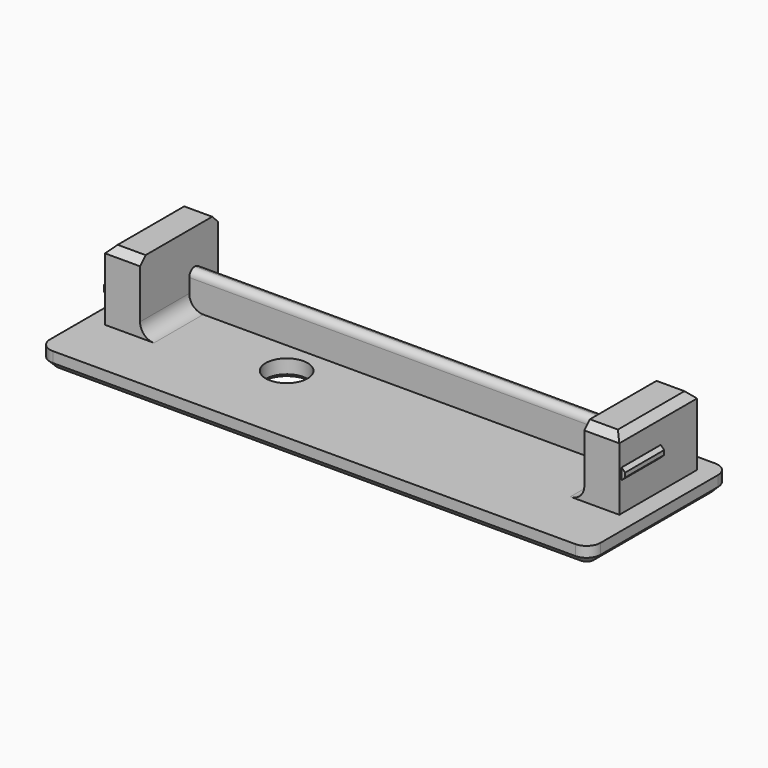
from build123d import *

# Parameters (mm, degrees)
SKETCH_W        = 73.75
SKETCH_H        = 20
PAD_DEPTH       = 2.5
SKETCH001_W     = 5
SKETCH001_H     = 13.9
PAD001_DEPTH    = 10
SKETCH002_W     = 25
SKETCH002_H     = 2.5
PAD002_DEPTH    = 2.5
SKETCH003_W     = 25
SKETCH003_H     = 2.5
PAD003_DEPTH    = 2.5
SKETCH004_W     = 73.75
SKETCH004_H     = 2.5
PAD004_DEPTH    = 2.5
SKETCH005_W     = 73.75
SKETCH005_H     = 2.5
PAD005_DEPTH    = 2.5
FILLET_R        = 2
SKETCH006_R     = 3
POCKET_DEPTH    = 5
CHAMFER_SIZE    = 0.5
SKETCH007_W     = 7
SKETCH007_H     = 1.6
PAD006_DEPTH    = 0.5
CHAMFER001_SIZE = 0.39
SKETCH008_W     = 7
SKETCH008_H     = 1.6
PAD007_DEPTH    = 0.5
CHAMFER002_SIZE = 0.49
CHAMFER003_SIZE = 1
CHAMFER004_SIZE = 1
CHAMFER005_SIZE = 1
SKETCH009_W     = 63.55
SKETCH009_H     = 2
PAD008_DEPTH    = 5
FILLET001_R     = 2
FILLET002_R     = 0.99
FILLET003_R     = 2


with BuildPart() as part:
    # Sketch → Pad (new body)
    with BuildSketch(Plane.XY):
        Rectangle(SKETCH_W, SKETCH_H)
    extrude(amount=PAD_DEPTH)

    # Sketch001 (on Face6 of Pad) → Pad001 (join)
    with BuildSketch(Plane.XY.offset(2.5)):
        with Locations((34.275, 3.05)):
            Rectangle(SKETCH001_W, SKETCH001_H)
        with Locations((-34.275, 3.05)):
            Rectangle(SKETCH001_W, SKETCH001_H)
    extrude(amount=PAD001_DEPTH)

    # Sketch002 (on Face2 of Pad001) → Pad002 (join)
    with BuildSketch(Plane(origin=(-36.875, 0, 0), x_dir=(0, -1, 0), z_dir=(-1, 0, 0))):
        with Locations((0, 1.25)):
            Rectangle(SKETCH002_W, SKETCH002_H)
    extrude(amount=PAD002_DEPTH)

    # Sketch003 (on Face16 of Pad002) → Pad003 (join)
    with BuildSketch(Plane.YZ.offset(36.875)):
        with Locations((0, 1.25)):
            Rectangle(SKETCH003_W, SKETCH003_H)
    extrude(amount=PAD003_DEPTH)

    # Sketch004 (on Face10 of Pad003) → Pad004 (join)
    with BuildSketch(Plane(origin=(0, 10, 0), x_dir=(-1, 0, 0), z_dir=(0, 1, 0))):
        with Locations((0, 1.25)):
            Rectangle(SKETCH004_W, SKETCH004_H)
    extrude(amount=PAD004_DEPTH)

    # Sketch005 (on Face10 of Pad004) → Pad005 (join)
    with BuildSketch(Plane.XZ.offset(10)):
        with Locations((0, 1.25)):
            Rectangle(SKETCH005_W, SKETCH005_H)
    extrude(amount=PAD005_DEPTH)

    # Fillet
    fillet_edges = [part.edges().sort_by_distance(p)[0] for p in [
        (39.375, -12.5, 1.25),
        (39.375, 12.5, 1.25),
        (-39.375, 12.5, 1.25),
        (-39.375, -12.5, 1.25),
    ]]
    fillet(fillet_edges, radius=FILLET_R)

    # Sketch006 (on Face23 of Fillet) → Pocket (cut)
    with BuildSketch(Plane(origin=(0, 0, 0), x_dir=(1, 0, 0), z_dir=(0, 0, -1))):
        with Locations((-14, -0.1)):
            Circle(SKETCH006_R)
    extrude(amount=-POCKET_DEPTH, mode=Mode.SUBTRACT)

    # Chamfer
    chamfer_edges = [part.edges().sort_by_distance(p)[0] for p in [
        (-17, 0.1, 0),
    ]]
    chamfer(chamfer_edges, length=CHAMFER_SIZE)

    # Sketch007 (on Face7 of Chamfer) → Pad006 (join)
    with BuildSketch(Plane(origin=(-36.775, 0, 0), x_dir=(0, -1, 0), z_dir=(-1, 0, 0))):
        with Locations((0, 6.8)):
            Rectangle(SKETCH007_W, SKETCH007_H)
    extrude(amount=PAD006_DEPTH)

    # Chamfer001
    chamfer001_edges = [part.edges().sort_by_distance(p)[0] for p in [
        (-37.275, 0, 6),
        (-37.275, 0, 7.6),
    ]]
    chamfer(chamfer001_edges, length=CHAMFER001_SIZE)

    # Sketch008 (on Face18 of Chamfer001) → Pad007 (join)
    with BuildSketch(Plane.YZ.offset(36.775)):
        with Locations((0, 7.5)):
            Rectangle(SKETCH008_W, SKETCH008_H)
    extrude(amount=PAD007_DEPTH)

    # Chamfer002
    chamfer002_edges = [part.edges().sort_by_distance(p)[0] for p in [
        (37.275, 0, 6.7),
        (37.275, 0, 8.3),
    ]]
    chamfer(chamfer002_edges, length=CHAMFER002_SIZE)

    # Chamfer003
    chamfer003_edges = [part.edges().sort_by_distance(p)[0] for p in [
        (36.775, 3.05, 12.5),
        (-36.775, 3.05, 12.5),
    ]]
    chamfer(chamfer003_edges, length=CHAMFER003_SIZE)

    # Chamfer004
    chamfer004_edges = [part.edges().sort_by_distance(p)[0] for p in [
        (-33.775, -3.9, 12.5),
        (-33.775, 10, 12.5),
        (33.775, -3.9, 12.5),
        (33.775, 10, 12.5),
    ]]
    chamfer(chamfer004_edges, length=CHAMFER004_SIZE)

    # Chamfer005
    chamfer005_edges = [part.edges().sort_by_distance(p)[0] for p in [
        (39.375, 0, 0),
    ]]
    chamfer(chamfer005_edges, length=CHAMFER005_SIZE)

    # Sketch009 (on Face12 of Chamfer005) → Pad008 (join)
    with BuildSketch(Plane.XY.offset(2.5)):
        with Locations((0, 5.9)):
            Rectangle(SKETCH009_W, SKETCH009_H)
    extrude(amount=PAD008_DEPTH)

    # Fillet001
    fillet001_edges = [part.edges().sort_by_distance(p)[0] for p in [
        (0, 6.9, 2.5),
    ]]
    fillet(fillet001_edges, radius=FILLET001_R)

    # Fillet002
    fillet002_edges = [part.edges().sort_by_distance(p)[0] for p in [
        (0, 4.9, 7.5),
        (0, 6.9, 7.5),
    ]]
    fillet(fillet002_edges, radius=FILLET002_R)

    # Fillet003
    fillet003_edges = [part.edges().sort_by_distance(p)[0] for p in [
        (-31.775, 0.5, 2.5),
        (31.775, 0.5, 2.5),
    ]]
    fillet(fillet003_edges, radius=FILLET003_R)


solid = part.part
